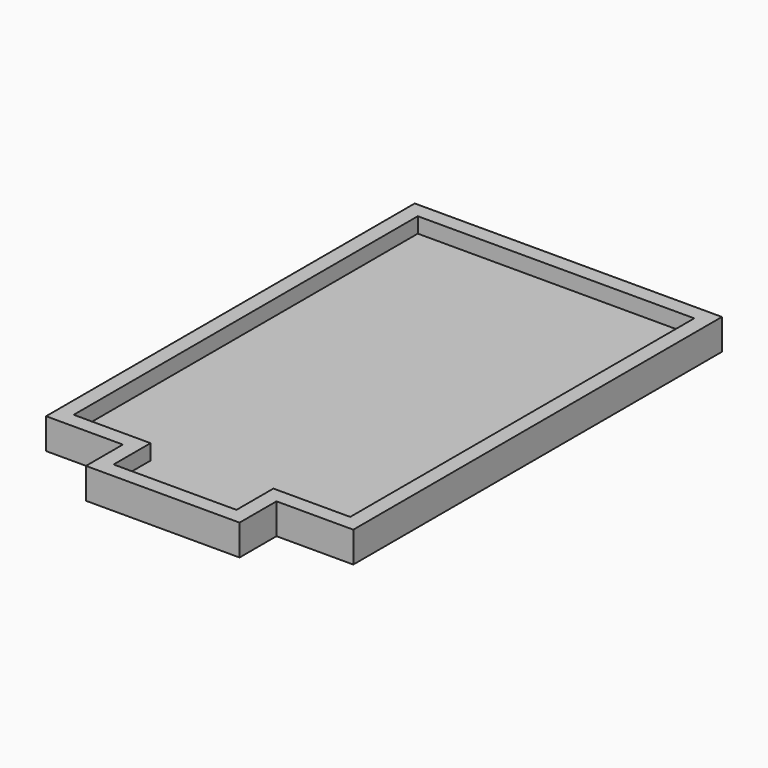
from build123d import *

# Parameters (mm, degrees)
F0_W     = 25.4
F0_H     = 7.634085685
F1_DEPTH = 5.08
F2_T     = -2.54


with BuildPart() as f1:
    # F0 (on Top) → F1 (new body)
    with BuildSketch(Plane.XY):
        Polygon((-7.7176965407, 45.0293049932), (-58.5176965407, 45.0293049932), (-58.5176965407, -31.1706950068), (-45.8176965407, -31.1706950068), (-20.4176965407, -31.1706950068), (-7.7176965407, -31.1706950068), align=None)
        with Locations((-33.1176965407, -34.9877378494)):
            Rectangle(F0_W, F0_H)
    extrude(amount=F1_DEPTH)

    # F2
    f2_openings = [f1.faces().sort_by_distance(p)[0] for p in [
        (-33.117697, 4.929742, 5.08),
    ]]
    offset(amount=F2_T, openings=f2_openings, kind=Kind.INTERSECTION)


solid = f1.part
